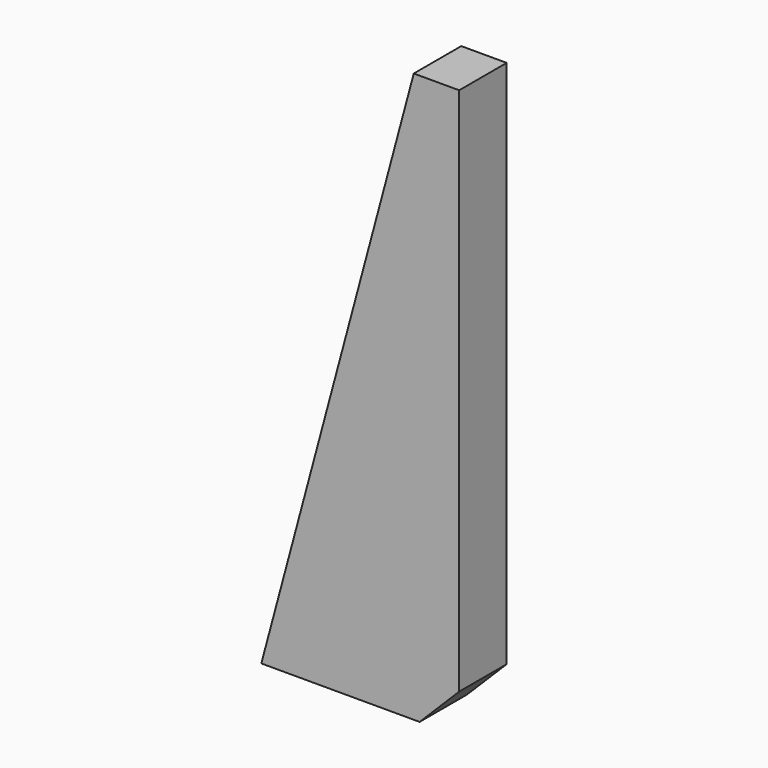
from build123d import *

# Parameters (mm, degrees)
F1_DEPTH = 15
F2_SIZE  = 10


with BuildPart() as f1:
    # F0 (on Front) → F1 (new body)
    with BuildSketch(Plane.XZ):
        Polygon((-40.164806, 73.414377), (-78.68671, -70.351325), (-28.68671, -70.351325), (-28.68671, 73.414377), align=None)
    extrude(amount=F1_DEPTH)

    # F2
    f2_edges = [f1.edges().sort_by_distance(p)[0] for p in [
        (-28.68671, -7.5, -70.351325),
    ]]
    chamfer(f2_edges, length=F2_SIZE)


solid = f1.part
